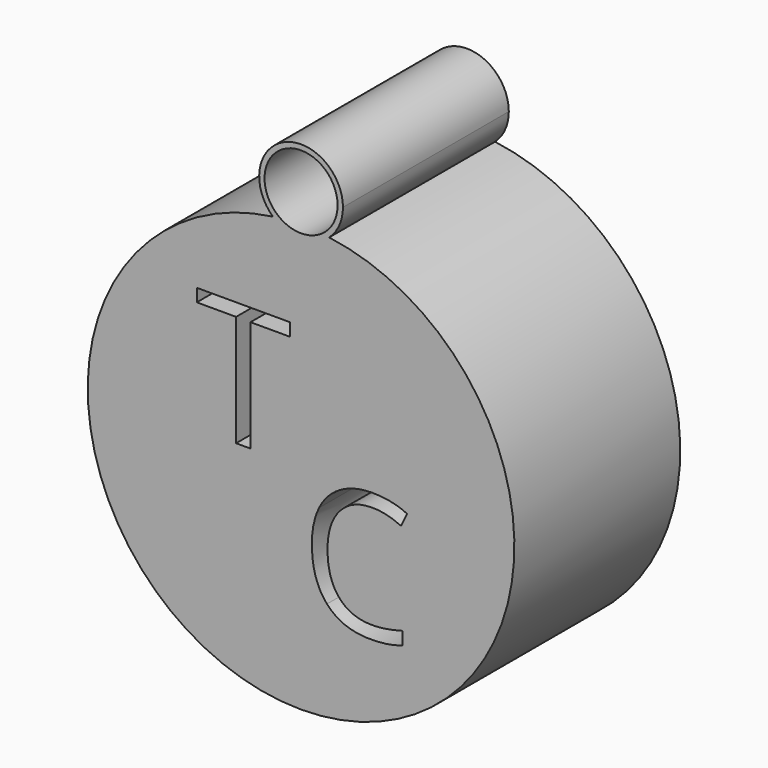
from build123d import *

# Parameters (mm, degrees)
F0_R     = 4.4758284469
F1_DEPTH = 25.4


with BuildPart() as f1:
    # F0 (on Front) → F1 (new body)
    with BuildSketch(Plane.XZ):
        with BuildLine():
            ThreePointArc((3.4462378282, 25.9042840516), (0, 24.5743248711), (-3.4462378282, 25.9042840516))
            ThreePointArc((-3.4462378282, 25.9042840516), (0, -26.1325178159), (3.4462378282, 25.9042840516))
        make_face()
        with BuildLine():
            add(Edge.make_bspline(
                [(12.2390337039, -2.3383244956), (10.4852903322, -1.5172076568), (8.7315469605, -1.5172076568)],
                knots=[0, 0, 0, 1, 1, 1], degree=2))
            add(Edge.make_bspline(
                [(8.7315469605, -1.5172076568), (6.1870984848, -1.5172076568), (4.7138188893, -3.2118170998)],
                knots=[0, 0, 0, 1, 1, 1], degree=2))
            add(Edge.make_bspline(
                [(4.7138188893, -3.2118170998), (3.2405392938, -4.9064265428), (3.2405392938, -7.8529857338)],
                knots=[0, 0, 0, 1, 1, 1], degree=2))
            add(Edge.make_bspline(
                [(3.2405392938, -7.8529857338), (3.2405392938, -10.8806428842), (4.6614431238, -12.5347033475)],
                knots=[0, 0, 0, 1, 1, 1], degree=2))
            add(Edge.make_bspline(
                [(4.6614431238, -12.5347033475), (6.0823469539, -14.1887638108), (8.7112724707, -14.1887638108)],
                knots=[0, 0, 0, 1, 1, 1], degree=2))
            add(Edge.make_bspline(
                [(8.7112724707, -14.1887638108), (10.3264734951, -14.1887638108), (12.3978505411, -13.6075617686)],
                knots=[0, 0, 0, 1, 1, 1], degree=2))
            Line((12.3978505411, -13.6075617686), (12.3978505411, -15.1788347317))
            add(Edge.make_bspline(
                [(12.3978505411, -15.1788347317), (10.7927867616, -15.7836903454), (8.4375668577, -15.7836903454)],
                knots=[0, 0, 0, 1, 1, 1], degree=2))
            add(Edge.make_bspline(
                [(8.4375668577, -15.7836903454), (5.0280734819, -15.7836903454), (3.1746472018, -13.7123132994)],
                knots=[0, 0, 0, 1, 1, 1], degree=2))
            add(Edge.make_bspline(
                [(3.1746472018, -13.7123132994), (1.3212209217, -11.6409362535), (1.3212209217, -7.8293321623)],
                knots=[0, 0, 0, 1, 1, 1], degree=2))
            add(Edge.make_bspline(
                [(1.3212209217, -7.8293321623), (1.3212209217, -5.4437005238), (2.2132984749, -3.6494081724)],
                knots=[0, 0, 0, 1, 1, 1], degree=2))
            add(Edge.make_bspline(
                [(2.2132984749, -3.6494081724), (3.1053760281, -1.8551158209), (4.7898482262, -0.8836298491)],
                knots=[0, 0, 0, 1, 1, 1], degree=2))
            add(Edge.make_bspline(
                [(4.7898482262, -0.8836298491), (6.4743204243, 0.0878561227), (8.755200532, 0.0878561227)],
                knots=[0, 0, 0, 1, 1, 1], degree=2))
            add(Edge.make_bspline(
                [(8.755200532, 0.0878561227), (11.1813811503, 0.0878561227), (12.9993270732, -0.7974632673)],
                knots=[0, 0, 0, 1, 1, 1], degree=2))
            Line((12.9993270732, -0.7974632673), (12.2390337039, -2.3383244956))
        make_face(mode=Mode.SUBTRACT)
        Polygon((-6.19505263, 13.6311120435), (-6.19505263, 0), (-7.9617405712, 0), (-7.9617405712, 13.6311120435), (-12.7760483883, 13.6311120435), (-12.7760483883, 15.2015013246), (-1.3807448128, 15.2015013246), (-1.3807448128, 13.6311120435), align=None, mode=Mode.SUBTRACT)
        with BuildLine():
            ThreePointArc((5.1299869915, 29.7043118626), (-2.0781736338, 34.3945102465), (-3.4462378282, 25.9042840516))
            ThreePointArc((-3.4462378282, 25.9042840516), (0, 24.5743248711), (3.4462378282, 25.9042840516))
            ThreePointArc((3.4462378282, 25.9042840516), (4.6901983839, 27.6261382288), (5.1299869915, 29.7043118626))
        make_face()
        with Locations((0, 29.7043118626)):
            Circle(F0_R, mode=Mode.SUBTRACT)
    extrude(amount=F1_DEPTH)


solid = f1.part
